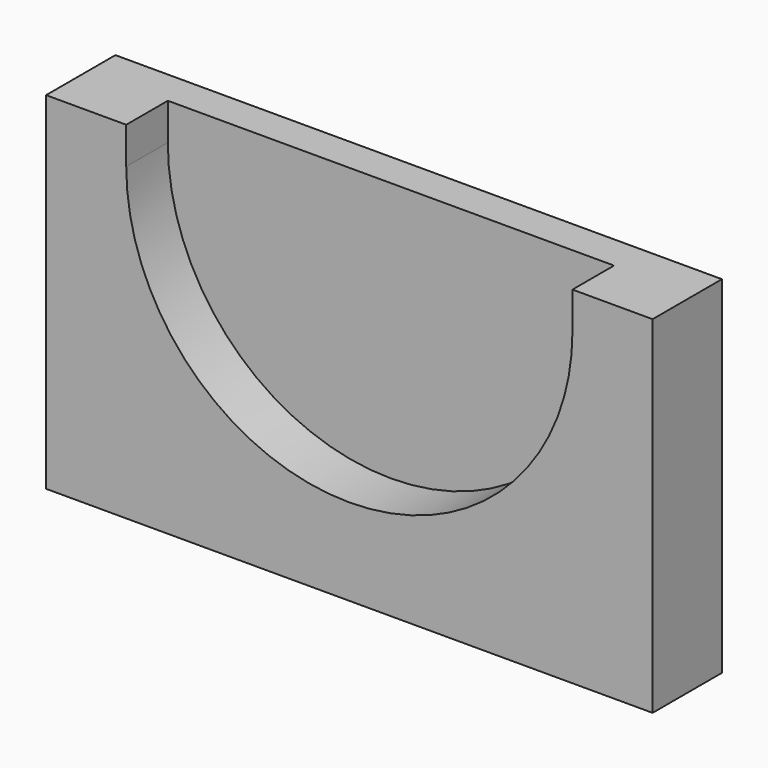
from build123d import *

# Parameters (mm, degrees)
F1_DEPTH = 10
F2_DEPTH = 6


with BuildPart() as f1:
    # F0 (on Front) → F1 (new body)
    with BuildSketch(Plane.XZ):
        with BuildLine():
            ThreePointArc((25.75, 0), (0, -25.75), (-25.75, 0))
            Line((-25.75, 0), (-25.75, 4.25))
            Line((-25.75, 4.25), (-35, 4.25))
            Line((-35, 4.25), (-35, -35.75))
            Line((-35, -35.75), (0, -35.75))
            Line((0, -35.75), (35, -35.75))
            Line((35, -35.75), (35, 4.25))
            Line((35, 4.25), (25.75, 4.25))
            Line((25.75, 4.25), (25.75, 0))
        make_face()
        with BuildLine():
            Line((-25.75, 4.25), (-25.75, 0))
            ThreePointArc((-25.75, 0), (0, -25.75), (25.75, 0))
            Line((25.75, 0), (25.75, 4.25))
            Line((25.75, 4.25), (-25.75, 4.25))
        make_face()
    extrude(amount=-F1_DEPTH)

    # F0 (on Front) → F2 (cut)
    with BuildSketch(Plane.XZ):
        with BuildLine():
            Line((-25.75, 4.25), (-25.75, 0))
            ThreePointArc((-25.75, 0), (0, -25.75), (25.75, 0))
            Line((25.75, 0), (25.75, 4.25))
            Line((25.75, 4.25), (-25.75, 4.25))
        make_face()
    extrude(amount=-F2_DEPTH, mode=Mode.SUBTRACT)


solid = f1.part
